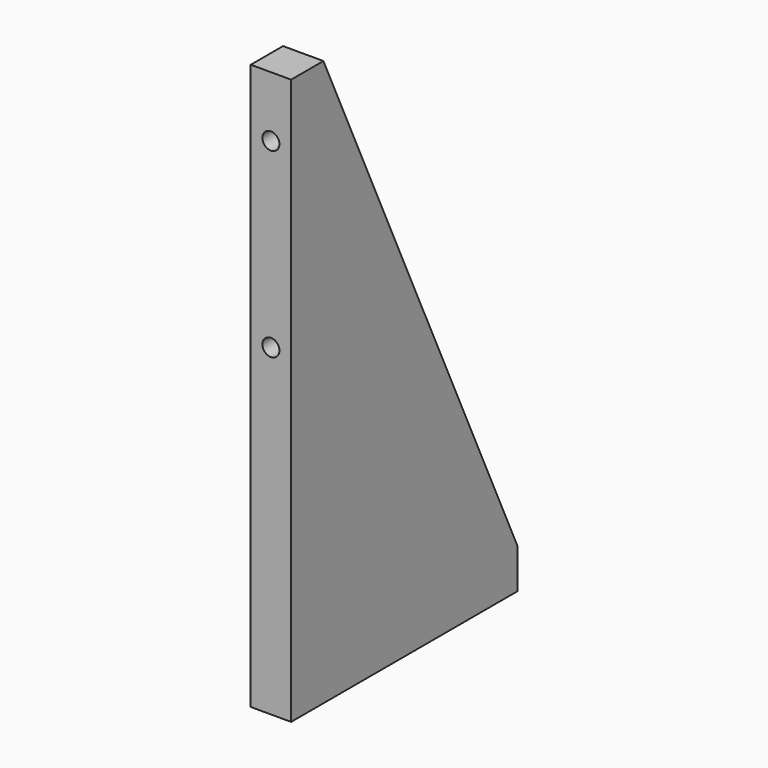
from build123d import *

# Parameters (mm, degrees)
F1_DEPTH = 25.4
F3_D     = 10.71626
F3_DEPTH = 18.5615384615
F3_TIP   = 3.2194893086
F5_D     = 10.71626
F5_DEPTH = 18.561558
F5_TIP   = 3.2194893086


with BuildPart() as f1:
    # F0 (on Right) → F1 (new body)
    with BuildSketch(Plane.YZ):
        Polygon((0, 355.6), (0, 0), (177.8, 0), (177.8, 25.4), (25.4, 355.6), align=None)
    extrude(amount=-F1_DEPTH)

    # F3
    with Locations(Plane.XZ):
        with Locations((-12.7, 317.5), (-12.7, 203.2)):
            Hole(F3_D / 2, depth=F3_DEPTH)
            with Locations((0, 0, -(F3_DEPTH + F3_TIP / 2))):  # 118° drill point
                Cone(0, F3_D / 2, F3_TIP, mode=Mode.SUBTRACT)

    # F5
    with Locations(Plane(origin=(0, 0, 0), x_dir=(1, 0, 0), z_dir=(0, 0, -1))):
        with Locations((-12.7, -50.8), (-12.7, -139.7)):
            Hole(F5_D / 2, depth=F5_DEPTH)
            with Locations((0, 0, -(F5_DEPTH + F5_TIP / 2))):  # 118° drill point
                Cone(0, F5_D / 2, F5_TIP, mode=Mode.SUBTRACT)


solid = f1.part
